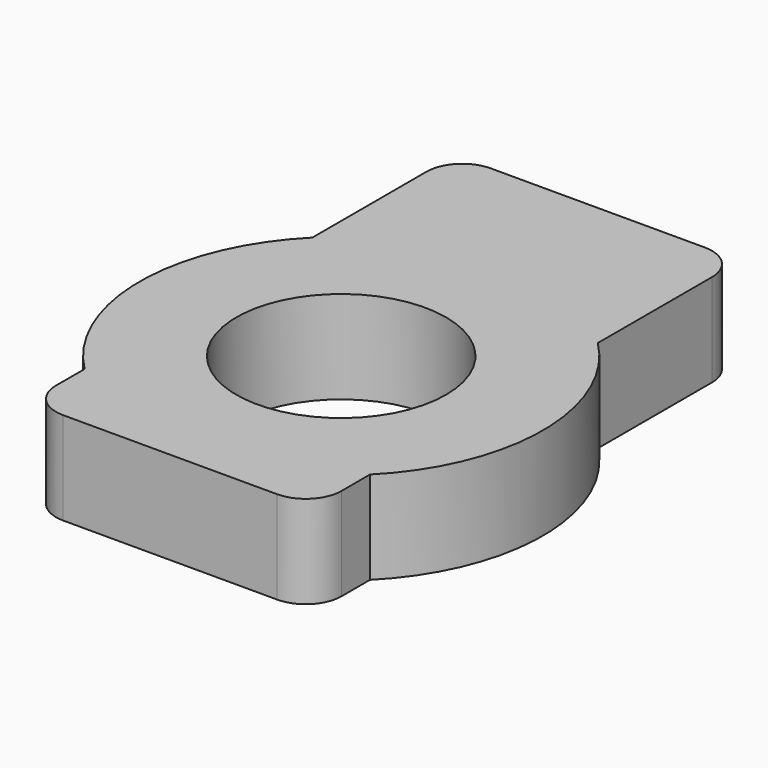
from build123d import *

# Parameters (mm, degrees)
PAD_DEPTH    = 2.6
SKETCH001_R  = 2.94
POCKET_DEPTH = 2.601
FILLET_R     = 1


with BuildPart() as part:
    # Sketch (on XY_Plane of Origin) → Pad (new body)
    with BuildSketch(Plane.XY):
        with BuildLine():
            ThreePointArc((4, -3.990301), (5.65, 0), (4, 3.990301))
            Line((4, 3.990301), (4, 8.990301))
            Line((4, 8.990301), (0, 8.990301))
            Line((0, 8.990301), (0, -5.990301))
            Line((4, -5.990301), (0, -5.990301))
            Line((4, -3.990301), (4, -5.990301))
        make_face()
    pad = extrude(amount=PAD_DEPTH)

    # Mirrored: Pad across Sketch V_Axis
    add(pad.mirror(Plane(origin=(0, 0, 0), x_dir=(0, 0, 1), z_dir=(1, 0, 0))))

    # Sketch001 (on XY_Plane of Origin) → Pocket (cut, through all)
    with BuildSketch(Plane.XY):
        Circle(SKETCH001_R)
    extrude(amount=POCKET_DEPTH, mode=Mode.SUBTRACT)

    # Fillet
    fillet_edges = [part.edges().sort_by_distance(p)[0] for p in [
        (-4, 8.990301, 1.3),
        (-4, -5.990301, 1.3),
        (4, -5.990301, 1.3),
        (4, 8.990301, 1.3),
    ]]
    fillet(fillet_edges, radius=FILLET_R)


solid = part.part
